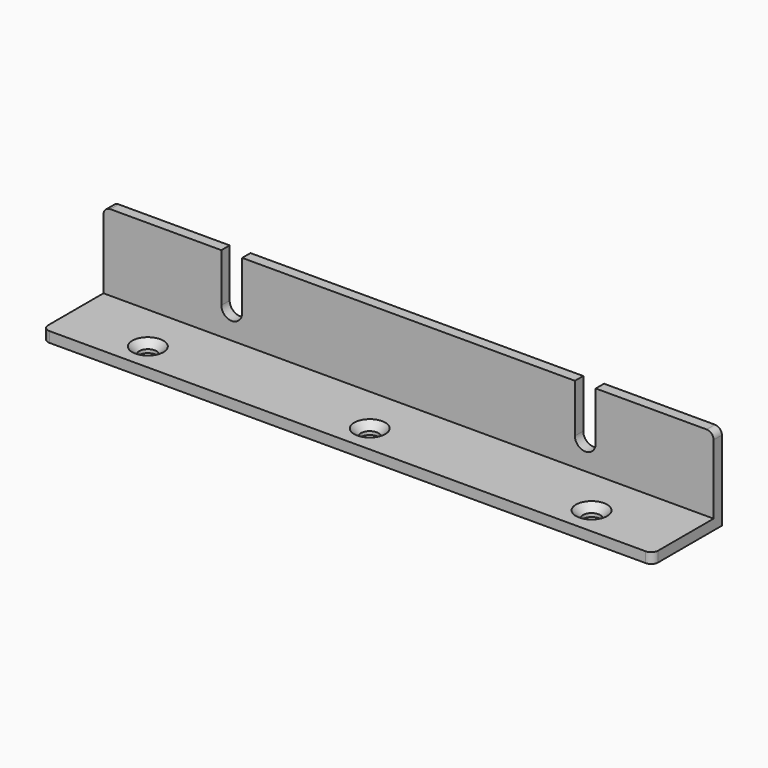
from build123d import *

# Parameters (mm, degrees)
CYLINDER002_R          = 2.5
CYLINDER002_DEPTH      = 10
CYLINDER001_R          = 2.5
CYLINDER001_DEPTH      = 10
CYLINDER_R             = 2.5
CYLINDER_DEPTH         = 10
BOX_W                  = 176
BOX_H                  = 25
BOX_DEPTH              = 3
CHAMFER_SIZE           = 2
FILLET_R               = 2
CYLINDER004_R          = 3
CYLINDER004_DEPTH      = 6
CYLINDER004_ROLL_ANGLE = 90
BOX003_W               = 6
BOX003_H               = 6
BOX003_DEPTH           = 15
CYLINDER003_R          = 3
CYLINDER003_DEPTH      = 6
CYLINDER003_ROLL_ANGLE = 90
BOX002_W               = 6
BOX002_H               = 6
BOX002_DEPTH           = 15
BOX001_W               = 176
BOX001_H               = 25
BOX001_DEPTH           = 3
BOX001_ROLL_ANGLE      = 90
FILLET001_R            = 2


with BuildPart() as cylinder002:
    # Cylinder002 → Cylinder002 (new body)
    with BuildSketch(Plane(origin=(88, 9, 0), x_dir=(1, 0, 0), z_dir=(0, 0, 1))):
        Circle(CYLINDER002_R)
    extrude(amount=CYLINDER002_DEPTH)


with BuildPart() as cylinder001:
    # Cylinder001 → Cylinder001 (new body)
    with BuildSketch(Plane(origin=(152, 9, 0), x_dir=(1, 0, 0), z_dir=(0, 0, 1))):
        Circle(CYLINDER001_R)
    extrude(amount=CYLINDER001_DEPTH)


with BuildPart() as cylinder:
    # Cylinder → Cylinder (new body)
    with BuildSketch(Plane(origin=(24, 9, 0), x_dir=(1, 0, 0), z_dir=(0, 0, 1))):
        Circle(CYLINDER_R)
    extrude(amount=CYLINDER_DEPTH)


with BuildPart() as fillet_body:
    # Box → Box (new body)
    with BuildSketch(Plane(origin=(0, 1, 0), x_dir=(1, 0, 0), z_dir=(0, 0, 1))):
        with Locations((88, 12.5)):
            Rectangle(BOX_W, BOX_H)
    extrude(amount=BOX_DEPTH)

    # Cut: cut Cylinder
    add(cylinder.part, mode=Mode.SUBTRACT)

    # Cut001: cut Cylinder001
    add(cylinder001.part, mode=Mode.SUBTRACT)

    # Cut002: cut Cylinder002
    add(cylinder002.part, mode=Mode.SUBTRACT)

    # Chamfer
    chamfer_edges = [fillet_body.edges().sort_by_distance(p)[0] for p in [
        (85.5, 9, 3),
        (21.5, 9, 3),
        (149.5, 9, 3),
    ]]
    chamfer(chamfer_edges, length=CHAMFER_SIZE)

    # Fillet
    fillet_edges = [fillet_body.edges().sort_by_distance(p)[0] for p in [
        (0, 1, 1.5),
        (176, 1, 1.5),
    ]]
    fillet(fillet_edges, radius=FILLET_R)


with BuildPart() as cylinder004:
    # Cylinder004 → Cylinder004 (new body)
    with BuildSketch(Plane.XY):
        Circle(CYLINDER004_R)
    extrude(amount=CYLINDER004_DEPTH)


with BuildPart() as cylinder004_1:
    # Cylinder004 roll: moved
    add(cylinder004.part.rotate(Axis((0, 0, 0), (1, 0, 0)), CYLINDER004_ROLL_ANGLE))


with BuildPart() as cylinder004_2:
    # Cylinder004 placement: moved
    add(cylinder004_1.part.moved(Location((36, 6, 0))))


with BuildPart() as fusion001:
    # Box003 → Box003 (new body)
    with BuildSketch(Plane(origin=(33, 0, 0), x_dir=(1, 0, 0), z_dir=(0, 0, 1))):
        with Locations((3, 3)):
            Rectangle(BOX003_W, BOX003_H)
    extrude(amount=BOX003_DEPTH)

    # Fusion001: union Cylinder004
    add(cylinder004_2.part)


with BuildPart() as fusion001_1:
    # Fusion001 placement: moved
    add(fusion001.part.moved(Location((103, 22, 11))))


with BuildPart() as cylinder003:
    # Cylinder003 → Cylinder003 (new body)
    with BuildSketch(Plane.XY):
        Circle(CYLINDER003_R)
    extrude(amount=CYLINDER003_DEPTH)


with BuildPart() as cylinder003_1:
    # Cylinder003 roll: moved
    add(cylinder003.part.rotate(Axis((0, 0, 0), (1, 0, 0)), CYLINDER003_ROLL_ANGLE))


with BuildPart() as cylinder003_2:
    # Cylinder003 placement: moved
    add(cylinder003_1.part.moved(Location((36, 6, 0))))


with BuildPart() as fusion:
    # Box002 → Box002 (new body)
    with BuildSketch(Plane(origin=(33, 0, 0), x_dir=(1, 0, 0), z_dir=(0, 0, 1))):
        with Locations((3, 3)):
            Rectangle(BOX002_W, BOX002_H)
    extrude(amount=BOX002_DEPTH)

    # Fusion: union Cylinder003
    add(cylinder003_2.part)


with BuildPart() as fusion_1:
    # Fusion placement: moved
    add(fusion.part.moved(Location((1, 22, 11))))


with BuildPart() as f_4u_ears:
    # Box001 → Box001 (new body)
    with BuildSketch(Plane.XY):
        with Locations((88, 12.5)):
            Rectangle(BOX001_W, BOX001_H)
    extrude(amount=BOX001_DEPTH)


with BuildPart() as f_4u_ears_1:
    # Box001 roll: moved
    add(f_4u_ears.part.rotate(Axis((0, 0, 0), (1, 0, 0)), BOX001_ROLL_ANGLE))


with BuildPart() as f_4u_ears_2:
    # Box001 placement: moved
    add(f_4u_ears_1.part.moved(Location((0, 26, 0))))

    # Cut003: cut Fusion
    add(fusion_1.part, mode=Mode.SUBTRACT)

    # Cut004: cut Fusion001
    add(fusion001_1.part, mode=Mode.SUBTRACT)

    # Fillet001
    fillet001_edges = [f_4u_ears_2.edges().sort_by_distance(p)[0] for p in [
        (0, 24.5, 25),
        (176, 24.5, 25),
    ]]
    fillet(fillet001_edges, radius=FILLET001_R)

    # Fusion002: union Fillet body
    add(fillet_body.part)


solid = f_4u_ears_2.part
